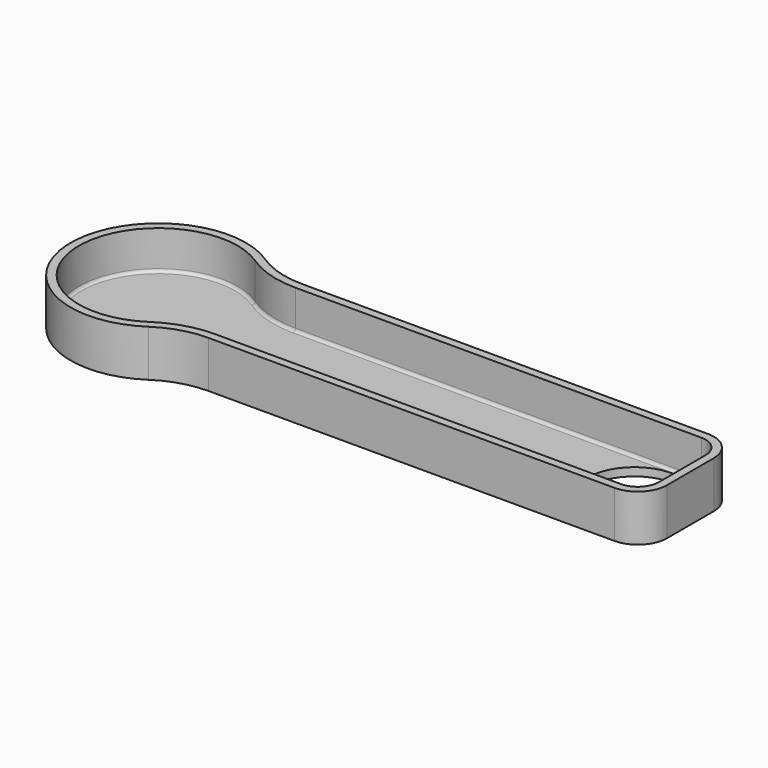
from build123d import *

# Parameters (mm, degrees)
PAD_DEPTH    = 8
THICKNESS_T  = -1.4
SKETCH001_R  = 8
POCKET_DEPTH = 5
FILLET001_R  = 0.5


with BuildPart() as part:
    # Sketch → Pad (new body)
    with BuildSketch(Plane.XY):
        with BuildLine():
            Line((-64.916876, -10), (4.583124, -10))
            ThreePointArc((4.583124, -10), (8.118658, -8.535534), (9.583124, -5))
            Line((9.583124, -5), (9.583124, 5))
            ThreePointArc((9.583124, 5), (8.118658, 8.535534), (4.583124, 10))
            Line((4.583124, 10), (-64.916876, 10))
            ThreePointArc((-73.208438, 12.5), (-69.247003, 10.638593), (-64.916876, 10))
            ThreePointArc((-73.208438, 12.5), (-96.5, 0), (-73.208438, -12.5))
            ThreePointArc((-64.916876, -10), (-69.247003, -10.638593), (-73.208438, -12.5))
        make_face()
    extrude(amount=PAD_DEPTH)

    # Thickness
    thickness_openings = [part.faces().sort_by_distance(p)[0] for p in [
        (-45.837274, 0, 8),
    ]]
    offset(amount=THICKNESS_T, openings=thickness_openings)

    # Sketch001 (on Face19 of Thickness) → Pocket (cut)
    with BuildSketch(Plane.XY.offset(1.4)):
        Circle(SKETCH001_R)
    extrude(amount=-POCKET_DEPTH, mode=Mode.SUBTRACT)

    # Fillet001
    fillet001_edges = [part.edges().sort_by_distance(p)[0] for p in [
        (-95.1, 0, 1.4),
    ]]
    fillet(fillet001_edges, radius=FILLET001_R)


solid = part.part
